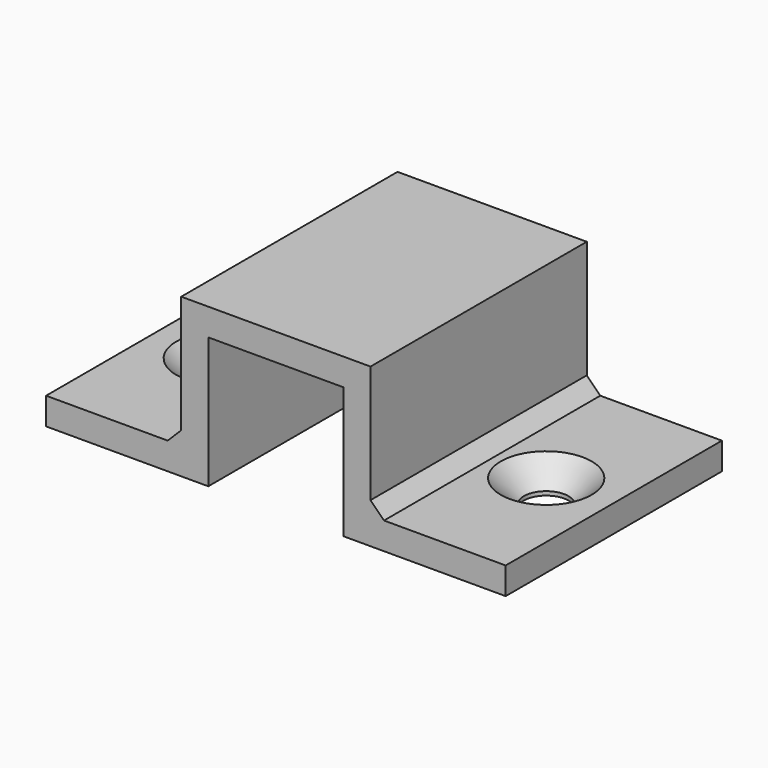
from build123d import *

# Parameters (mm, degrees)
F1_DEPTH             = 20
F4_D                 = 3.3
F4_CSINK_D           = 6.72
F4_CSINK_ANGLE       = 90
F4_ON_F2_D           = 3.3
F4_ON_F2_CSINK_D     = 6.72
F4_ON_F2_CSINK_ANGLE = 90
F5_SIZE              = 1


with BuildPart() as f1:
    # F0 (on Front) → F1 (new body)
    with BuildSketch(Plane.XZ):
        Polygon((0, 2), (0, 0), (12, 0), (12, 9.7012996929), (22, 9.7012996929), (22, 0), (34, 0), (34, 2), (24, 2), (24, 11.7012996929), (10, 11.7012996929), (10, 2), align=None)
    extrude(amount=F1_DEPTH)

    # F4 (through all)
    with Locations(Plane.XY.offset(2)):
        with Locations((5, -10)):
            CounterSinkHole(F4_D / 2, F4_CSINK_D / 2, counter_sink_angle=F4_CSINK_ANGLE)

    # F4 on F2 (through all)
    with Locations(Plane.XY.offset(2)):
        with Locations((29, -10)):
            CounterSinkHole(F4_ON_F2_D / 2, F4_ON_F2_CSINK_D / 2, counter_sink_angle=F4_ON_F2_CSINK_ANGLE)

    # F5
    f5_edges = [f1.edges().sort_by_distance(p)[0] for p in [
        (24, -10, 2),
        (10, -10, 2),
    ]]
    chamfer(f5_edges, length=F5_SIZE)


solid = f1.part
